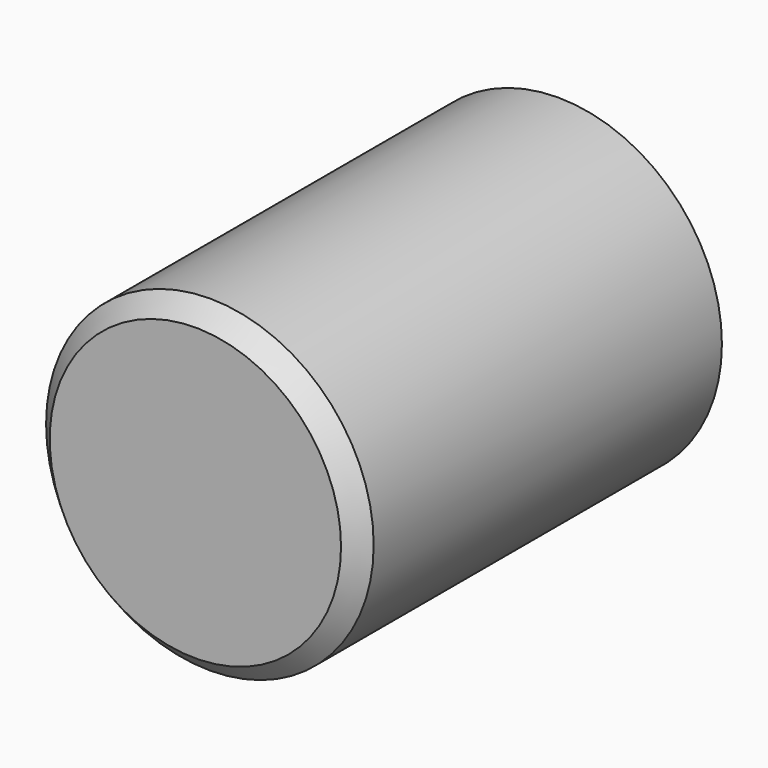
from build123d import *

# Parameters (mm, degrees)
F0_R     = 45.877581
F1_DEPTH = 127
F2_SIZE  = 5.08
F3_T     = -2.54


with BuildPart() as f1:
    # F0 (on Front) → F1 (new body)
    with BuildSketch(Plane.XZ):
        Circle(F0_R)
    extrude(amount=F1_DEPTH)

    # F2
    f2_edges = [f1.edges().sort_by_distance(p)[0] for p in [
        (-45.877581, -127, 0),
    ]]
    chamfer(f2_edges, length=F2_SIZE)

    # F3
    f3_openings = [f1.faces().sort_by_distance(p)[0] for p in [
        (0, 0, 0),
    ]]
    offset(amount=F3_T, openings=f3_openings)


solid = f1.part
